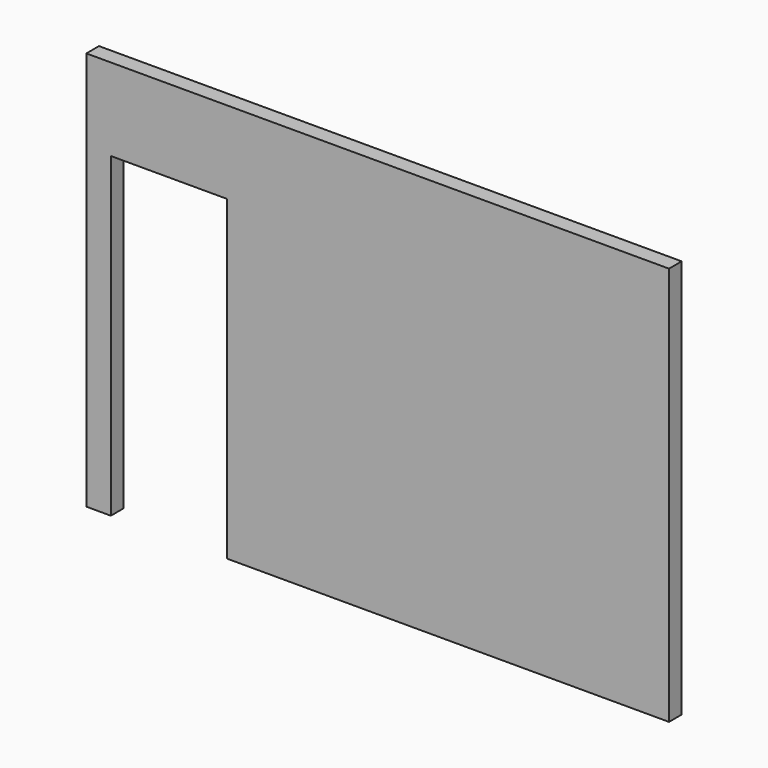
from build123d import *

# Parameters (mm, degrees)
F0_W     = 3680
F0_H     = 2520
F1_DEPTH = 100
F2_W     = 735
F2_H     = 2000
F3_DEPTH = 100


with BuildPart() as f1:
    # F0 (on Front) → F1 (new body)
    with BuildSketch(Plane.XZ):
        Rectangle(F0_W, F0_H)
    extrude(amount=-F1_DEPTH)

    # F2 (on face) → F3 (cut)
    with BuildSketch(Plane.XZ):
        with Locations((-1317.5, -260)):
            Rectangle(F2_W, F2_H)
    extrude(amount=-F3_DEPTH, mode=Mode.SUBTRACT)


solid = f1.part
